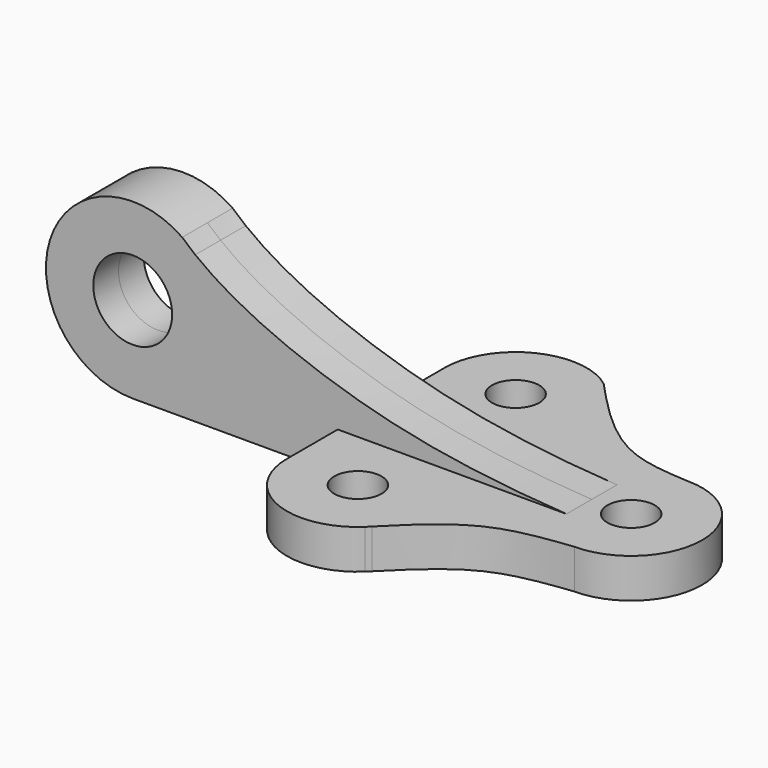
from build123d import *

# Parameters (mm, degrees)
F0_R          = 6
F1_DEPTH      = 10
F2_R          = 10
F3_DEPTH      = 8
F3_DEPTH_BACK = 8


with BuildPart() as f1:
    # F0 (on Top) → F1 (new body)
    with BuildSketch(Plane.XY):
        with BuildLine():
            add(Edge.make_bspline(
                [(15.035214282, 35.7758070535), (20.6547243447, 29.9096895942), (32.0572190076, 19.3354156229), (43.3709472389, 18.3830413599), (50.0389123718, 17.9999579396)],
                knots=[0.1100015048, 0.1100015048, 0.1100015048, 0.1100015048, 0.5520103315, 1, 1, 1, 1], degree=3))
            add(Edge.make_bspline(
                [(10.8487541415, 40.2425303512), (12.240880162, 38.7336352898), (13.6367024745, 37.2356913565), (15.035214282, 35.7758070535)],
                knots=[0, 0, 0, 0, 0.1100015048, 0.1100015048, 0.1100015048, 0.1100015048], degree=3))
            ThreePointArc((10.8487541415, 40.2425303512), (-8.0225440308, 41.9925361174), (-18, 25.8792252449))
            Line((-18, 25.8792252449), (-18, -24.1207747551))
            ThreePointArc((-18, -24.1207747551), (-7.1750439774, -40.6289165015), (12.2798604358, -37.281512868))
            add(Edge.make_bspline(
                [(12.2798604358, -37.281512868), (12.6087941785, -36.9495490353), (12.9376997677, -36.6175538258), (13.266753224, -36.2860227548)],
                knots=[0, 0, 0, 0, 0.030015942, 0.030015942, 0.030015942, 0.030015942], degree=3))
            add(Edge.make_bspline(
                [(13.266753224, -36.2860227548), (18.573084972, -30.9397368732), (29.2837115537, -20.4679750546), (43.1130211826, -18.8256033287), (50.0389123718, -17.9999579396)],
                knots=[0.030015942, 0.030015942, 0.030015942, 0.030015942, 0.5140544551, 1, 1, 1, 1], degree=3))
            ThreePointArc((50.0389123718, -17.9999579396), (68, 0), (50.0389123718, 17.9999579396))
        make_face()
        with Locations((0, -24.1207747551)):
            Circle(F0_R, mode=Mode.SUBTRACT)
        with Locations((50, 0)):
            Circle(F0_R, mode=Mode.SUBTRACT)
        with Locations((0, 25.8792252449)):
            Circle(F0_R, mode=Mode.SUBTRACT)
    extrude(amount=F1_DEPTH)

    # F2 (on Front) → F3 (join, two sides)
    with BuildSketch(Plane.XZ) as f3_sk:
        with BuildLine():
            Line((-70, 0), (40, 0))
            Line((40, 0), (40, 10))
            add(Edge.make_bspline(
                [(-54.1361760858, 37.2426733488), (-45.1191100189, 30.1758346752), (-14.9531909541, 16.7242072459), (16.1924294121, 11.4815951801), (40, 10)],
                knots=[0.0529916149, 0.0529916149, 0.0529916149, 0.0529916149, 0.4594202582, 1, 1, 1, 1], degree=3))
            add(Edge.make_bspline(
                [(-57.4545068819, 40.0723712452), (-56.4207333208, 39.1074668132), (-55.3118532927, 38.1640729584), (-54.1361760858, 37.2426733488)],
                knots=[0, 0, 0, 0, 0.0529916149, 0.0529916149, 0.0529916149, 0.0529916149], degree=3))
            ThreePointArc((-57.4545068819, 40.0723712452), (-90.9951442886, 28.5729686066), (-70, 0))
        make_face()
        with Locations((-70, 22)):
            Circle(F2_R, mode=Mode.SUBTRACT)
    extrude(amount=F3_DEPTH)
    extrude(f3_sk.sketch, amount=-F3_DEPTH_BACK)


solid = f1.part
